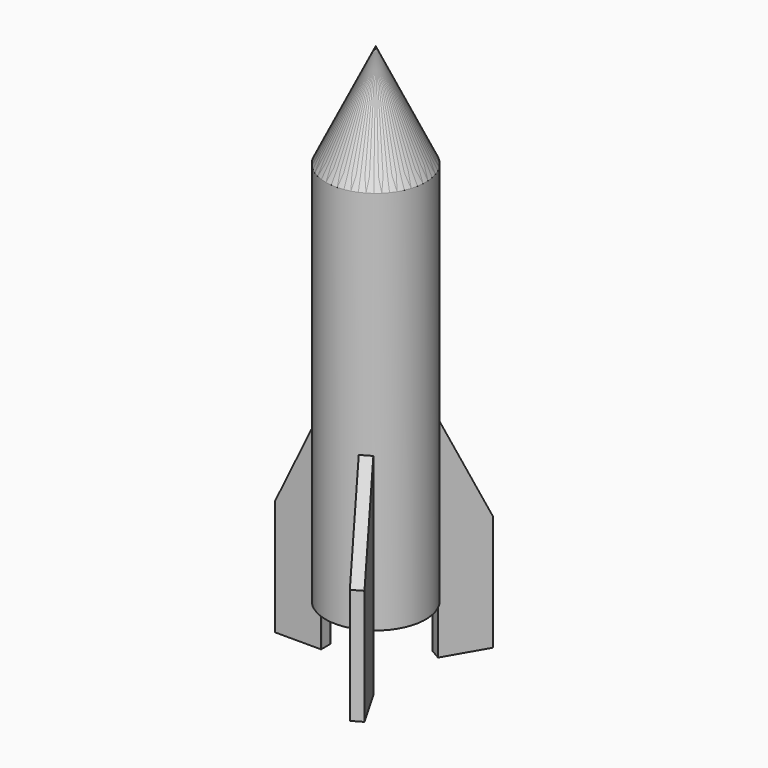
from build123d import *

# Parameters (mm, degrees)
F3_DEPTH = 1.5
F4_COUNT = 3
F5_DEPTH = 1.25


with BuildPart() as f1:
    # F0 (on Front) → F1 (revolve)
    with BuildSketch(Plane.XZ):
        Polygon((-10, 100), (0, 100), (0, 127), (-13, 100.0556262038), (-13, 0), (-10, 0), align=None)
    revolve(axis=Axis((0, 0, 63.5), (0, 0, 1)))

    # F2 (on Front) → F3 (join, symmetric)
    with BuildSketch(Plane.XZ):
        Polygon((-13, 40), (-25, 15.3033933416), (-25, -14.6966066584), (-13, -14.6966066584), (-13, -4.6966066584), align=None)
    extrude(amount=F3_DEPTH, both=True)


with BuildPart() as f4_1:
    # F4: instance of F1
    add(f1.part.rotate(Axis((0, 0, 100.0556262038), (0, 0, -1)), 1 * 360 / F4_COUNT))


with BuildPart() as f4_2:
    # F4: instance of F1
    add(f1.part.rotate(Axis((0, 0, 100.0556262038), (0, 0, -1)), 2 * 360 / F4_COUNT))


with BuildPart() as f5:
    # F2 (on Front) → F5 (new body, symmetric)
    with BuildSketch(Plane.XZ):
        Polygon((-13, 40), (-25, 15.3033933416), (-25, -14.6966066584), (-13, -14.6966066584), (-13, -4.6966066584), align=None)
    extrude(amount=F5_DEPTH, both=True)


solid = Compound([f1.part, f4_1.part, f4_2.part, f5.part])
